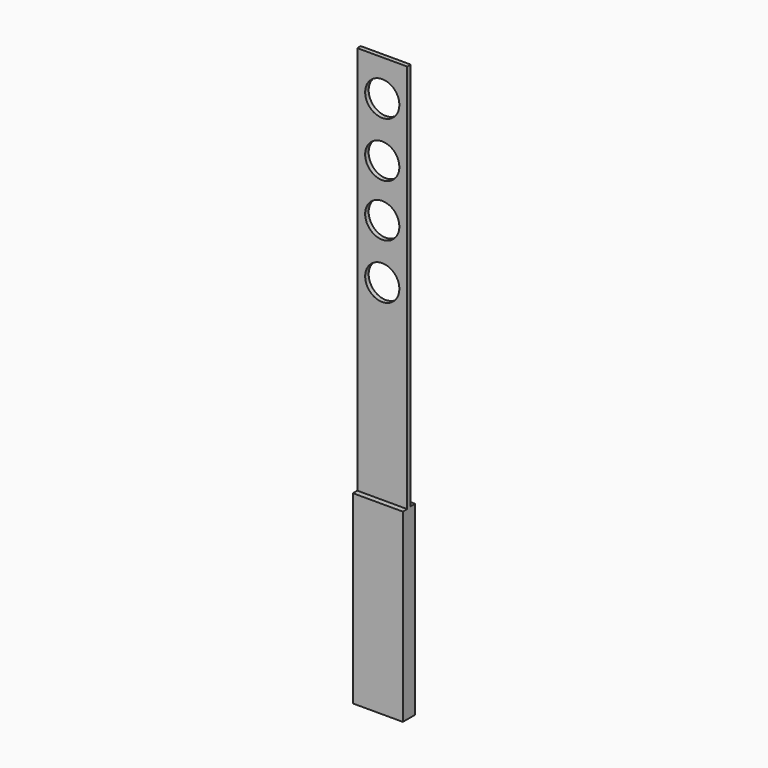
from build123d import *

# Parameters (mm, degrees)
F0_W     = 11.57671
F0_H     = 133.13216
F0_R     = 3.960953
F1_DEPTH = 1.016
F2_W     = 11.57671
F2_H     = 42.885969
F3_DEPTH = 1.27
F4_W     = 11.57671
F4_H     = 43.044424
F5_DEPTH = 1.27


with BuildPart() as f1:
    # F0 (on Front) → F1 (new body)
    with BuildSketch(Plane.XZ):
        Rectangle(F0_W, F0_H)
        with Locations((0, 20.632684)):
            Circle(F0_R, mode=Mode.SUBTRACT)
        with Locations((0, 33.329722)):
            Circle(F0_R, mode=Mode.SUBTRACT)
        with Locations((0, 45.466594)):
            Circle(F0_R, mode=Mode.SUBTRACT)
        with Locations((0, 58.163632)):
            Circle(F0_R, mode=Mode.SUBTRACT)
    extrude(amount=F1_DEPTH)

    # F2 (on face) → F3 (join)
    with BuildSketch(Plane.XZ.offset(1.016)):
        with Locations((0, -45.123095)):
            Rectangle(F2_W, F2_H)
    extrude(amount=F3_DEPTH)

    # F4 (on face) → F5 (join)
    with BuildSketch(Plane(origin=(0, 0, 0), x_dir=(-1, 0, 0), z_dir=(0, 1, 0))):
        with Locations((0, -45.043868)):
            Rectangle(F4_W, F4_H)
    extrude(amount=F5_DEPTH)


solid = f1.part
